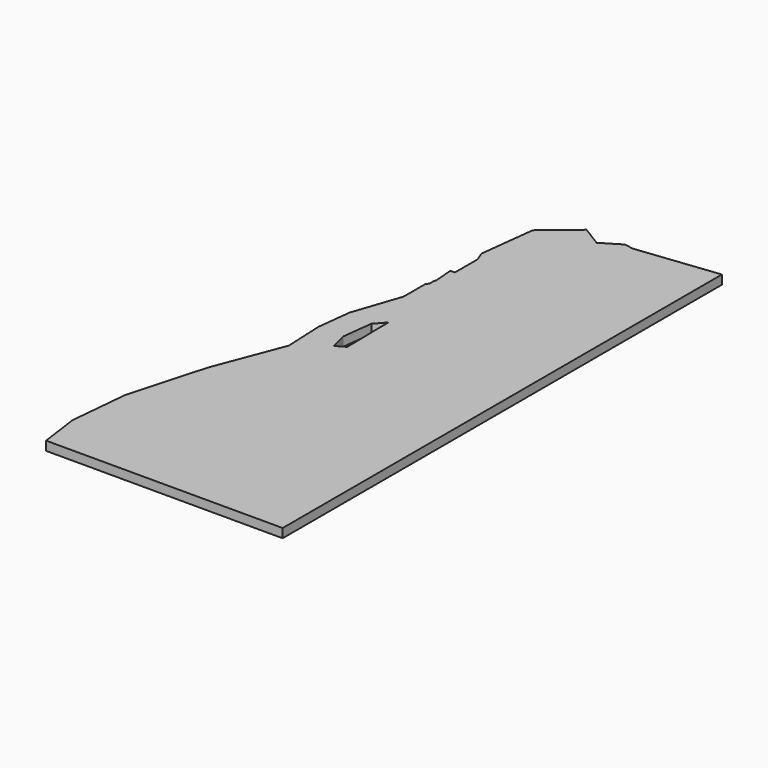
from build123d import *

# Parameters (mm, degrees)
F1_DEPTH = 10


with BuildPart() as f1:
    # F0 (on Top) → F1 (new body)
    with BuildSketch(Plane.XY):
        Polygon((-9.0848000015, -110.7615454752), (-56.1383759786, -99.5413844552), (-60.5711821835, -172.3231920342), (-46.2314955784, -166.9866744318), (-31.8368203584, -161.629692804), (-12.4792818206, -185.2976312547), (-8.3274594973, -173.0151698079), align=None)
        Polygon((-46.2314955784, -166.9866744318), (-60.5711821835, -172.3231920342), (-36.5771841639, -219.3779317834), (-30.0718690254, -195.3284089729), align=None)
        Polygon((-73.3901330708, -341.8031902357), (-67.6759054309, -305.1561174487), (-117.473756471, -341.8031902357), align=None)
        Polygon((-180.8332437482, -164.6954374649), (-178.1702202991, -127.8611419204), (-191.2844337417, -85.1857664238), (-223.9830016906, -109.2145339581), (-199.4350007827, -142.6196794592), align=None)
        Polygon((-60.5711821835, -172.3231920342), (-56.1383759786, -99.5413844552), (-76.2307639896, -111.0958880131), align=None)
        with BuildLine():
            Line((0, -56.0086877966), (0, 0))
            Line((0, 0), (0, 183.04142414))
            ThreePointArc((0, 183.04142414), (-12.1429681008, 182.0306137788), (-24.2587123077, 180.7336349065))
            ThreePointArc((-24.2587123077, 180.7336349065), (-43.8384967055, 178.022818891), (-63.3002183714, 174.5648035161))
            Line((-63.3002183714, 174.5648035161), (-90.1476441557, 159.7151652456))
            Line((-90.1476441557, 159.7151652456), (-110.0777075737, 125.0936001484))
            Line((-110.0777075737, 125.0936001484), (-117.5709400449, 112.443005226))
            Line((-117.5709400449, 112.443005226), (-121.5424738016, 81.778090181))
            Line((-121.5424738016, 81.778090181), (-120.5897784893, 63.4272970351))
            Line((-120.5897784893, 63.4272970351), (-118.2717298581, 18.7771025967))
            Line((-118.2717298581, 18.7771025967), (-91.0548188771, -12.1895038479))
            Line((-91.0548188771, -12.1895038479), (-67.1898289679, -36.0534735031))
            Line((-67.1898289679, -36.0534735031), (-44.5592410741, -45.3110454311))
            Line((-44.5592410741, -45.3110454311), (0, -56.0086877966))
        make_face()
        Polygon((-219.0594424787, -207.1807143872), (-180.8332437482, -164.6954374649), (-199.4350007827, -142.6196794592), (-244.2064624437, -167.6488361397), (-244.2064624437, -235.1295594847), (-244.1253321165, -235.0393897966), align=None)
        Polygon((-69.332321625, -272.619905615), (-51.1947474372, -233.2889083715), (-91.4025763749, -247.6959746369), (-105.8642157468, -277.2303671094), (-110.9766685206, -287.2999995754), align=None)
        Polygon((-178.5368838703, -47.4589412792), (-191.2844337417, -85.1857664238), (-103.998360561, -43.181896403), (-115.1686413361, -25.682248799), (-121.2751949675, -16.1155656711), (-132.4912150412, -15.850094913), (-168.4559845523, -41.6986706085), align=None)
        Polygon((-115.2799656319, -272.619905615), (-104.626763126, -238.5452330401), (-164.9988434448, -237.3814824562), (-186.9655664085, -307.6428796384), (-147.3245982234, -288.275746156), align=None)
        Polygon((-147.3245982234, -288.275746156), (-186.9655664085, -307.6428796384), (-225.461235686, -326.9737341095), (-203.2383822965, -341.8031902357), align=None)
        Polygon((-100.8472110518, -292.6593101859), (-110.9766685206, -287.2999995754), (-138.6484816888, -341.8031902357), (-117.473756471, -341.8031902357), align=None)
        Polygon((-112.8765014321, -132.1697047954), (-103.998360561, -83.2290777974), (-178.1702202991, -127.8611419204), (-132.6259808253, -176.1945950219), align=None)
        Polygon((-178.1702202991, -127.8611419204), (-103.998360561, -83.2290777974), (-191.2844337417, -85.1857664238), align=None)
        Polygon((-90.8448589252, -184.2596719807), (-112.8765014321, -132.1697047954), (-132.6259808253, -176.1945950219), (-108.3129286229, -207.0093147384), align=None)
        Polygon((-26.3059871691, 236.8900387434), (0, 200.9310461479), (0, 266.9844396385), (-90.4915869948, 256.698241221), (-90.4915869948, 236.9089266819), (-67.691279032, 236.9089266819), (-52.4303249207, 253.3576469712), (-44.5592410741, 261.8413404297), align=None)
        Polygon((-145.4554682746, 109.5463630128), (-126.266214477, 156.0594467116), (-155.6719385674, 161.4210224536), align=None)
        Polygon((-225.461235686, -326.9737341095), (-186.9655664085, -307.6428796384), (-222.7215119105, -236.4381093161), (-268.4299686655, -297.649834803), align=None)
        Polygon((-138.6484816888, -341.8031902357), (-147.3245982234, -288.275746156), (-203.2383822965, -341.8031902357), align=None)
        Polygon((-223.9830016906, -109.2145339581), (-191.2844337417, -85.1857664238), (-178.5368838703, -47.4589412792), (-209.5049759154, -71.3810654092), align=None)
        Polygon((-132.6259808253, -176.1945950219), (-178.1702202991, -127.8611419204), (-180.8332437482, -164.6954374649), (-219.0594424787, -207.1807143872), (-162.4549610771, -232.5733737044), align=None)
        Polygon((-168.8814023684, -15.0877447128), (-168.4559845523, -41.6986706085), (-132.4912150412, -15.850094913), (-160.5595044997, 3.8948894653), align=None)
        Polygon((-126.266214477, 156.0594467116), (-91.0839805971, 200.9310461479), (-91.0839805971, 211.6955617738), (-118.1022370987, 214.7468585147), (-119.6827789183, 201.3186872483), (-122.9745003909, 180.9520327), (-160.6235661183, 180.9520327), (-164.1089604542, 184.0228917319), (-183.1327547534, 171.6665067373), (-182.9318682558, 157.0410916611), (-182.9318682558, 125.5653286399), (-167.9374396819, 116.997453287), (-161.000895729, 122.7428464239), (-145.4554682746, 109.5463630128), (-155.6719385674, 161.4210224536), align=None)
        Polygon((-128.2701594184, 162.3996241842), (-155.6719385674, 161.4210224536), (-153.9593301405, 177.0785171865), (-128.2701594184, 176.0999302288), align=None, mode=Mode.SUBTRACT)
        Polygon((-103.998360561, -83.2290777974), (-73.3901330708, -63.691398935), (-90.9000652816, -41.7426421686), (-103.998360561, -43.181896403), align=None)
        Polygon((-108.3129286229, -207.0093147384), (-132.6259808253, -176.1945950219), (-162.4549610771, -232.5733737044), align=None)
        Polygon((-76.2307639896, -111.0958880131), (-56.1383759786, -99.5413844552), (-103.998360561, -83.2290777974), (-112.8765014321, -132.1697047954), align=None)
        Polygon((-36.7759240923, -253.3689891762), (-51.1947474372, -233.2889083715), (-69.332321625, -272.619905615), align=None)
        Polygon((-91.0839805971, 200.9310461479), (-26.3059871691, 236.8900387434), (-44.5592410741, 261.8413404297), (-52.4303249207, 253.3576469712), align=None)
        Polygon((-75.1025455423, -161.4246713618), (-76.2307639896, -111.0958880131), (-112.8765014321, -132.1697047954), (-90.8448589252, -184.2596719807), align=None)
        Polygon((-199.4350007827, -142.6196794592), (-223.9830016906, -109.2145339581), (-238.4610274657, -147.048002507), (-244.2064624437, -167.6488361397), align=None)
        Polygon((-191.2844337417, -85.1857664238), (-103.998360561, -83.2290777974), (-103.998360561, -43.181896403), align=None)
        Polygon((-103.998360561, -83.2290777974), (-56.1383759786, -99.5413844552), (-73.3901330708, -63.691398935), align=None)
        Polygon((-90.1476441557, 159.7151652456), (-63.3002183714, 174.5648035161), (-91.0839805971, 200.9310461479), align=None)
        Polygon((-67.6759054309, -305.1561174487), (-100.8472110518, -292.6593101859), (-117.473756471, -341.8031902357), align=None)
        Polygon((-104.626763126, -238.5452330401), (-108.3129286229, -207.0093147384), (-162.4549610771, -232.5733737044), (-164.9988434448, -237.3814824562), align=None)
        Polygon((-91.0839805971, 200.9310461479), (-45.5419902985, 200.9310461479), (-26.3059871691, 236.8900387434), align=None)
        Polygon((-45.5419902985, 200.9310461479), (0, 200.9310461479), (-26.3059871691, 236.8900387434), align=None)
        Polygon((-105.8642157468, -277.2303671094), (-115.2799656319, -272.619905615), (-147.3245982234, -288.275746156), (-138.6484816888, -341.8031902357), (-110.9766685206, -287.2999995754), align=None)
        Polygon((-90.1476441557, 159.7151652456), (-91.0839805971, 200.9310461479), (-126.266214477, 156.0594467116), (-126.266214477, 98.2510494237), (-117.5709400449, 112.443005226), (-110.0777075737, 125.0936001484), align=None)
        Polygon((0, -280.3467120072), (-14.2974299663, -277.1022620157), (0, -326.679632709), align=None)
        Polygon((-51.1947474372, -233.2889083715), (-65.5583828964, -207.9411011242), (-91.4025763749, -247.6959746369), align=None)
        Polygon((-118.1022370987, 214.7468585147), (-91.0839805971, 211.6955617738), (-121.5343782481, 235.0574086031), (-136.7585983685, 233.4549272522), (-160.6235661183, 230.9429321907), (-160.6235661183, 200.7840914456), (-160.6235661183, 180.9520327), (-119.6827789183, 201.3186872483), align=None)
        Polygon((-162.4549610771, -232.5733737044), (-219.0594424787, -207.1807143872), (-244.1253321165, -235.0393897966), (-244.1278405297, -235.134347985), (-222.7215119105, -236.4381093161), (-164.9988434448, -237.3814824562), align=None)
        Polygon((-63.3002183714, 174.5648035161), (-45.5419902985, 200.9310461479), (-91.0839805971, 200.9310461479), align=None)
        Polygon((-56.1383759786, -99.5413844552), (-35.3859818241, -65.0423578409), (-73.3901330708, -63.691398935), align=None)
        Polygon((-186.9655664085, -307.6428796384), (-164.9988434448, -237.3814824562), (-222.7215119105, -236.4381093161), align=None)
        Polygon((-244.2064624437, -235.1295594847), (-262.3134825626, -232.5733737044), (-268.4299686655, -297.649834803), (-222.7215119105, -236.4381093161), (-244.1278405297, -235.134347985), align=None)
        Polygon((0, -175.0910735831), (0, -112.3517529746), (-9.0848000015, -110.7615454752), (-8.3274594973, -173.0151698079), (-12.4792818206, -185.2976312547), align=None)
        Polygon((-160.6235661183, 200.7840914456), (-160.6235661183, 230.9429321907), (-183.1327547534, 200.7840914456), align=None)
        with BuildLine():
            ThreePointArc((-24.2587123077, 180.7336349065), (-12.1429681008, 182.0306137788), (0, 183.04142414))
            Line((0, 183.04142414), (0, 200.9310461479))
            Line((0, 200.9310461479), (-45.5419902985, 200.9310461479))
            Line((-45.5419902985, 200.9310461479), (-24.2587123077, 180.7336349065))
        make_face()
        Polygon((-207.1807247874, 9.597514079), (-211.4622384682, -27.8336724946), (-193.2377589594, -10.3311773052), align=None)
        Polygon((-100.8472110518, -224.9932698232), (-73.3901330708, -194.120248152), (-108.3129286229, -207.0093147384), (-104.626763126, -238.5452330401), align=None)
        Polygon((-179.3598086986, 5.2063697262), (-198.0077592053, 36.745230469), (-207.1807247874, 9.597514079), align=None)
        Polygon((-126.266214477, 98.2510494237), (-126.266214477, 156.0594467116), (-145.4554682746, 109.5463630128), align=None)
        Polygon((-124.6032858295, 18.9269635057), (-118.2717298581, 18.7771025967), (-120.5897784893, 63.4272970351), (-146.9668106058, 19.456283339), (-134.5117213963, 19.1614851884), align=None)
        Polygon((-36.7759240923, -253.3689891762), (-69.332321625, -272.619905615), (-35.9529918776, -275.1757215485), align=None)
        Polygon((-244.2064624437, -235.1295594847), (-244.2064624437, -167.6488361397), (-262.3134825626, -232.5733737044), align=None)
        Polygon((-36.5771841639, -219.3779317834), (-60.5711821835, -172.3231920342), (-73.3901330708, -194.120248152), (-65.5583828964, -207.9411011242), (-51.1947474372, -233.2889083715), align=None)
        Polygon((-211.4622384682, -27.8336724947), (-209.5049759154, -71.3810654092), (-192.8467724969, -44.7100751986), align=None)
        Polygon((-60.5711821835, -172.3231920342), (-76.2307639896, -111.0958880131), (-75.1025455423, -161.4246713618), (-73.3901330708, -194.1202481519), align=None)
        Polygon((0, -64.2491116145), (0, -56.0086877966), (-44.5592410741, -45.3110454311), (-67.1898289679, -36.0534735031), (-91.0548188771, -12.1895038479), (-118.2717298581, 18.7771025967), (-111.8023189882, 0), (-96.2303815507, -17.188950378), (-70.8576630889, -40.1913407085), (-73.3901330708, -63.691398935), (-35.3859818241, -65.0423578409), align=None)
        Polygon((0, -98.5291272535), (0, -64.2491116145), (-35.3859818241, -65.0423578409), (-56.1383759786, -99.5413844552), (-35.3859818241, -88.8284441579), (-18.8707314396, -80.302830677), align=None)
        Polygon((-225.461235686, -326.9737341095), (-268.4299686655, -297.649834803), (-262.3134825626, -341.8031902357), (-203.2383822965, -341.8031902357), align=None)
        Polygon((-65.5583828964, -207.9411011242), (-73.3901330708, -194.1202481519), (-91.4025763749, -240.6699612755), (-91.4025763749, -247.6959746369), align=None)
        Polygon((-122.9745003909, 180.9520327), (-119.6827789183, 201.3186872483), (-160.6235661183, 180.9520327), align=None)
        Polygon((-91.4025763749, -247.6959746369), (-104.626763126, -238.5452330401), (-115.2799656319, -272.619905615), (-105.8642157468, -277.2303671094), align=None)
        with BuildLine():
            ThreePointArc((-63.3002183714, 174.5648035161), (-43.8384967055, 178.022818891), (-24.2587123077, 180.7336349065))
            Line((-24.2587123077, 180.7336349065), (-45.5419902985, 200.9310461479))
            Line((-45.5419902985, 200.9310461479), (-63.3002183714, 174.5648035161))
        make_face()
        Polygon((-136.7585983685, 233.4549272522), (-136.7585983685, 246.1665023031), (-160.6235661183, 230.9429321907), align=None)
        Polygon((0, -220.3067341793), (-18.4286041621, -221.2719219721), (0, -235.2843056938), align=None)
        Polygon((-135.0558286982, 7.3890497706), (-146.9668106058, 19.456283339), (-142.3466871056, 43.4612742486), (-155.6265254516, 66.9658715101), (-167.9374396819, 61.5911086505), (-158.4689818362, 43.2722844393), (-189.2827708595, 62.5671423682), (-176.4572573224, 37.8640410816), (-198.0077592053, 36.745230469), (-179.3598086986, 5.2063697262), (-169.3817879105, 16.2125959761), (-167.0568583851, 18.7771025967), (-154.9811573992, 34.7985962376), (-151.1675312539, 27.6595571569), (-160.5595044997, 3.8948894653), align=None)
        Polygon((-176.4572573224, 37.8640410816), (-189.2827708595, 62.5671423682), (-198.0077592053, 36.745230469), align=None)
        Polygon((-146.9668106058, 19.456283339), (-120.5897784893, 63.4272970351), (-137.0578679345, 74.8583050578), (-141.2991845332, 50.7912143836), (-149.4696070974, 83.0550824895), (-149.4696070974, 69.6538908952), (-155.6265254516, 66.9658715101), (-142.3466871056, 43.4612742486), align=None)
        Polygon((-91.0839805971, 211.6955617738), (-91.0839805971, 200.9310461479), (-52.4303249207, 253.3576469712), (-67.691279032, 236.9089266819), align=None)
        Polygon((-67.691279032, 236.9089266819), (-90.4915869948, 236.9089266819), (-121.5343782481, 235.0574086031), (-91.0839805971, 211.6955617738), align=None)
        Polygon((-35.9529918776, -275.1757215485), (-69.332321625, -272.619905615), (-53.285172983, -289.1620015421), align=None)
        Polygon((-91.4025763749, -240.6699612755), (-73.3901330708, -194.120248152), (-100.8472110518, -224.9932698232), align=None)
        Polygon((-90.4915869948, 236.9089266819), (-90.4915869948, 256.698241221), (-100.7942867503, 258.4274100775), (-121.5343782481, 235.0574086031), align=None)
        Polygon((-31.8368203584, -161.629692804), (-46.2314955784, -166.9866744318), (-30.0718690254, -195.3284089729), align=None)
        Polygon((-160.6235661183, 230.9429321907), (-170.7540452849, 236.898350978), (-179.7687227862, 229.3646685872), (-183.1327547534, 200.7840914456), align=None)
        Polygon((-60.5942279197, -318.6514141551), (-73.3901330708, -341.8031902357), (-43.9733349894, -331.044023416), (-25.8534417635, -324.4166891483), align=None)
        Polygon((-137.0578679345, 74.8583050578), (-120.5897784893, 63.4272970351), (-121.5424738016, 81.778090181), align=None)
        Polygon((0, -209.1648444865), (0, -189.5159844786), (-12.4792818206, -185.2976312547), (-30.0718690254, -195.3284089729), align=None)
        Polygon((-43.9733349894, -331.044023416), (-73.3901330708, -341.8031902357), (-49.683611929, -341.8031902357), align=None)
        Polygon((-43.9733349894, -331.044023416), (-49.683611929, -341.8031902357), (-29.3898579874, -341.8031902357), align=None)
        Polygon((-53.285172983, -289.1620015421), (-69.332321625, -272.619905615), (-110.9766685206, -287.2999995754), (-100.8472110518, -292.6593101859), (-67.6759054309, -305.1561174487), align=None)
        Polygon((-121.5343782481, 235.0574086031), (-100.7942867503, 258.4274100775), (-121.8137708667, 245.6259616072), (-143.9577465644, 259.2923638284), (-160.6235661183, 230.9429321907), (-136.7585983685, 246.1665023031), align=None)
        Polygon((-36.8817018053, -288.0530584461), (-67.6759054309, -305.1561174487), (-46.4845498273, -313.8022958113), (-19.5109283249, -305.1561174487), (-24.1628781348, -300.2854692814), align=None)
        Polygon((-209.5049759154, -71.3810654092), (-178.5368838703, -47.4589412792), (-183.4744771589, -28.8409299731), (-179.3598086986, 5.2063697262), (-207.1807247874, 9.597514079), (-193.2377589594, -10.3311773052), (-211.4622384682, -27.8336724947), (-192.8467724969, -44.7100751986), align=None)
        Polygon((0, -112.3517529746), (0, -98.5291272535), (-56.1383759786, -99.5413844552), (-9.0848000015, -110.7615454752), align=None)
        Polygon((-90.9000652816, -41.7426421686), (-73.3901330708, -63.691398935), (-70.8576630889, -40.1913407085), (-97.6143223252, -32.7582730108), align=None)
        Polygon((0, -327.5633480528), (-29.3898579874, -341.8031902357), (0, -341.8031902357), align=None)
        Polygon((-159.0845608403, 76.6309867017), (-167.9374396819, 83.0550824895), (-189.2827708595, 62.5671423682), (-167.9374396819, 61.5911086505), align=None)
        Polygon((-73.3901330708, -194.1202481519), (-75.1025455423, -161.4246713618), (-90.8448589252, -184.2596719807), align=None)
        Polygon((0, -235.2843056938), (-11.3356103883, -244.4529040914), (-5.7283935779, -254.3480766129), (0, -260.3674351424), align=None)
        Polygon((-30.0718690254, -195.3284089729), (-12.4792818206, -185.2976312547), (-31.8368203584, -161.629692804), align=None)
        Polygon((-132.4912150412, -15.850094913), (-121.2751949674, -16.1155656711), (-135.0558286982, 7.3890497706), (-160.5595044997, 3.8948894653), align=None)
        Polygon((0, -220.3067341793), (0, -209.1648444865), (-18.4286041621, -221.2719219721), align=None)
        Polygon((-19.5109283249, -305.1561174487), (-46.4845498273, -313.8022958113), (-60.5942279197, -318.6514141551), (-25.8534417635, -324.4166891483), align=None)
        Polygon((-141.2991845332, 50.7912143836), (-137.0578679345, 74.8583050578), (-149.4696070974, 83.0550824895), align=None)
        Polygon((-189.2827708595, 62.5671423682), (-167.9374396819, 83.0550824895), (-167.9374396819, 116.997453287), (-182.9318682558, 125.5653286399), (-188.0084302879, 125.5653286399), (-187.0465219432, 114.3442193666), (-186.2794534792, 104.5250812017), (-187.0465219432, 100.8883606271), (-187.0465219432, 95.5787485882), (-188.2793949626, 93.743790939), (-189.2827708595, 92.4142366246), align=None)
        Polygon((-97.6143223252, -32.7582730108), (-70.8576630889, -40.1913407085), (-96.2303815507, -17.188950378), align=None)
        Polygon((-108.3129286229, -207.0093147384), (-73.3901330708, -194.120248152), (-90.8448589252, -184.2596719807), align=None)
        Polygon((-164.1089604542, 184.0228917319), (-160.6235661183, 180.9520327), (-160.6235661183, 200.7840914456), (-183.1327547534, 200.7840914456), align=None)
        Polygon((-46.4845498273, -313.8022958113), (-67.6759054309, -305.1561174487), (-73.3901330708, -341.8031902357), (-60.5942279197, -318.6514141551), align=None)
        Polygon((-25.8534417635, -324.4166891483), (-43.9733349894, -331.044023416), (-29.3898579874, -341.8031902357), (0, -327.5633480528), align=None)
        Polygon((-18.7484080699, -96.4496188887), (-35.3859818241, -88.8284441579), (-37.9532989904, -97.7951796488), align=None)
        Polygon((-56.1383759786, -99.5413844552), (0, -98.5291272535), (-18.8707314396, -80.3028306771), (-18.7484080699, -96.4496188887), (-37.9532989904, -97.7951796488), (-35.3859818241, -88.8284441579), align=None)
        Polygon((-153.9593301405, 177.0785171865), (-128.2701594184, 162.3996241842), (-128.2701594184, 176.0999302288), align=None)
        Polygon((0, -326.679632709), (-19.5109283249, -305.1561174487), (-25.8534417635, -324.4166891483), (0, -327.5633480528), align=None)
        Polygon((-164.1089604542, 184.0228917319), (-183.1327547534, 200.7840914456), (-187.0465219432, 167.5330028196), (-182.9318682558, 157.0410916611), (-183.1327547534, 171.6665067373), align=None)
        Polygon((-18.7484080699, -96.4496188887), (-18.8707314396, -80.3028306771), (-35.3859818241, -88.8284441579), align=None)
        Polygon((-117.5709400449, 112.443005226), (-126.266214477, 98.2510494237), (-167.9374396819, 83.0550824895), (-149.4696070974, 83.0550824895), (-121.5424738016, 81.778090181), align=None)
        Polygon((0, -260.3674351424), (-5.7283935779, -254.3480766129), (-9.8672773941, -258.1383321793), (0, -276.1014805879), align=None)
        Polygon((-169.3817879105, 16.2125959761), (-168.8814023684, -15.0877447128), (-160.5595044997, 3.8948894653), (-167.0568583851, 18.7771025967), align=None)
        Polygon((-153.9593301405, 177.0785171865), (-155.6719385674, 161.4210224536), (-128.2701594184, 162.3996241842), align=None)
        Polygon((-160.6235661183, 230.9429321907), (-143.9577465644, 259.2923638284), (-170.7540452849, 236.898350978), align=None)
        Polygon((0, -189.5159844786), (0, -175.0910735831), (-12.4792818206, -185.2976312547), align=None)
        Polygon((-118.2717298581, -7.8270727527), (-124.6032858295, 18.9269635057), (-134.5117213963, 19.1614851884), align=None)
        Polygon((-149.4696070974, 69.6538908952), (-159.0845608403, 76.6309867017), (-167.9374396819, 61.5911086505), (-155.6265254516, 66.9658715101), align=None)
        Polygon((-30.0718690254, -195.3284089729), (-36.5771841639, -219.3779317834), (-24.4849719167, -209.1648444865), (-19.0627055457, -209.1648444865), (0, -209.1648444865), align=None)
        Polygon((-109.0602074297, -18.9443588874), (-97.6143223252, -32.7582730108), (-96.2303815507, -17.188950378), (-111.8023189882, 0), (-118.2717298581, -7.8270727527), align=None)
        Polygon((-18.4286041621, -221.2719219721), (-36.5771841639, -219.3779317834), (-51.1947474372, -233.2889083715), (-26.1998137088, -247.409121429), (-11.3356103883, -244.4529040914), align=None)
        Polygon((-36.8817018053, -288.0530584461), (-53.285172983, -289.1620015421), (-67.6759054309, -305.1561174487), align=None)
        Polygon((-167.9374396819, 83.0550824895), (-126.266214477, 98.2510494237), (-145.4554682746, 109.5463630128), (-158.3862830984, 94.844402115), (-161.000895729, 122.7428464239), (-167.9374396819, 116.997453287), align=None)
        Polygon((-14.2974299663, -277.1022620157), (-24.1628781348, -300.2854692814), (-19.5109283249, -305.1561174487), (0, -326.679632709), align=None)
        Polygon((-111.8023189882, 0), (-118.2717298581, 18.7771025967), (-124.6032858295, 18.9269635057), (-118.2717298581, -7.8270727527), align=None)
        Polygon((-167.9374396819, 61.5911086505), (-189.2827708595, 62.5671423682), (-158.4689818362, 43.2722844393), align=None)
        Polygon((-158.3862830984, 94.844402115), (-145.4554682746, 109.5463630128), (-161.000895729, 122.7428464239), align=None)
        Polygon((-11.3356103883, -244.4529040914), (-26.1998137087, -247.409121429), (-16.6522514634, -264.3517913815), (-9.8672773941, -258.1383321793), (-5.7283935779, -254.3480766129), align=None)
        Polygon((-26.1998137088, -247.409121429), (-51.1947474372, -233.2889083715), (-36.7759240923, -253.3689891762), align=None)
        Polygon((-134.5117213963, 19.1614851884), (-146.9668106058, 19.456283339), (-135.0558286982, 7.3890497706), (-118.2717298581, -7.8270727527), align=None)
        Polygon((0, -235.2843056938), (-18.4286041621, -221.2719219721), (-11.3356103883, -244.4529040914), align=None)
        Polygon((-136.7585983685, 233.4549272522), (-121.5343782481, 235.0574086031), (-136.7585983685, 246.1665023031), align=None)
        Polygon((-154.9811573992, 34.7985962376), (-167.0568583851, 18.7771025967), (-151.1675312539, 27.6595571569), align=None)
        Polygon((-137.0578679345, 74.8583050578), (-121.5424738016, 81.778090181), (-149.4696070974, 83.0550824895), align=None)
        Polygon((-91.4025763749, -240.6699612755), (-100.8472110518, -224.9932698232), (-104.626763126, -238.5452330401), (-91.4025763749, -247.6959746369), align=None)
        Polygon((-16.6522514634, -264.3517913815), (-36.7759240923, -253.3689891762), (-35.9529918776, -275.1757215485), align=None)
        Polygon((-103.998360561, -43.181896403), (-90.9000652816, -41.7426421686), (-97.6143223252, -32.7582730108), (-109.0602074297, -18.9443588874), (-115.1686413361, -25.682248799), align=None)
        Polygon((-35.9529918776, -275.1757215485), (-53.285172983, -289.1620015421), (-36.8817018053, -288.0530584461), (-24.1628781348, -277.5901735663), (-21.564985234, -275.453069141), align=None)
        Polygon((-9.8672773941, -258.1383321793), (-16.6522514634, -264.3517913815), (0, -278.6730301923), (0, -276.1014805879), align=None)
        Polygon((-18.4286041621, -221.2719219721), (0, -209.1648444865), (-19.0627055457, -209.1648444865), align=None)
        Polygon((-16.6522514634, -264.3517913815), (-26.1998137088, -247.409121429), (-36.7759240923, -253.3689891762), align=None)
        Polygon((0, -278.6730301923), (-16.6522514634, -264.3517913815), (-21.564985234, -275.453069141), (-14.2974299663, -277.1022620157), (0, -280.3467120072), align=None)
        Polygon((-121.2751949675, -16.1155656711), (-115.1686413361, -25.682248799), (-109.0602074297, -18.9443588874), (-118.2717298581, -7.8270727527), (-135.0558286982, 7.3890497706), align=None)
        Polygon((-167.0568583851, 18.7771025967), (-160.5595044997, 3.8948894653), (-151.1675312539, 27.6595571569), align=None)
        Polygon((-24.4849719167, -209.1648444865), (-36.5771841639, -219.3779317834), (-18.4286041621, -221.2719219721), (-19.0627055457, -209.1648444865), align=None)
        Polygon((-149.4696070974, 83.0550824895), (-167.9374396819, 83.0550824895), (-159.0845608403, 76.6309867017), (-149.4696070974, 69.6538908952), align=None)
        Polygon((-16.6522514634, -264.3517913815), (-35.9529918776, -275.1757215485), (-21.564985234, -275.453069141), align=None)
        Polygon((-14.2974299663, -277.1022620157), (-21.564985234, -275.453069141), (-24.1628781348, -277.5901735663), (-24.1628781348, -300.2854692814), align=None)
        Polygon((-244.1278405297, -235.134347985), (-244.1253321165, -235.0393897966), (-244.2064624437, -235.1295594847), align=None)
        Polygon((-24.1628781348, -277.5901735663), (-36.8817018053, -288.0530584461), (-24.1628781348, -300.2854692814), align=None)
    extrude(amount=-F1_DEPTH)


solid = f1.part
